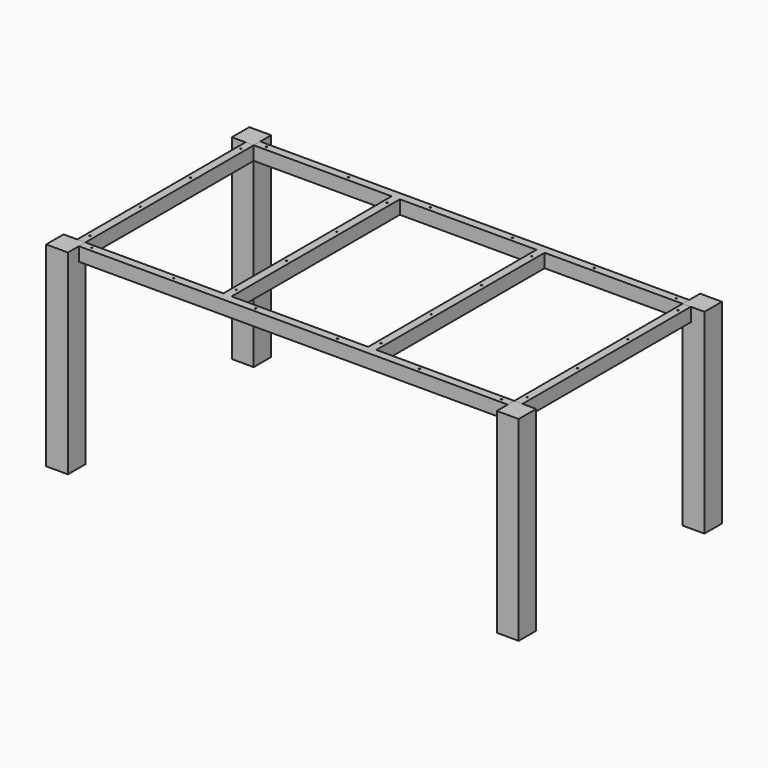
from build123d import *

# Parameters (mm, degrees)
F0_W     = 30
F0_H     = 30
F1_DEPTH = 715
F0_H_2   = 770
F2_DEPTH = 50
F3_D     = 5
F3_2_D   = 5
F3_3_D   = 5


with BuildPart() as f1:
    # F0 (on Top) → F1 (new body)
    with BuildSketch(Plane.XY):
        Polygon((865, -385), (815, -385), (815, -415), (785, -415), (785, -465), (865, -465), align=None)
        with Locations((800, -400)):
            Rectangle(F0_W, F0_H)
    extrude(amount=-F1_DEPTH)


with BuildPart() as f1b:
    # F0 (on Top) → F1, piece 2 (new body)
    with BuildSketch(Plane.XY):
        Polygon((785, 465), (785, 415), (815, 415), (815, 385), (865, 385), (865, 465), align=None)
        with Locations((800, 400)):
            Rectangle(F0_W, F0_H)
    extrude(amount=-F1_DEPTH)


with BuildPart() as f1c:
    # F0 (on Top) → F1, piece 3 (new body)
    with BuildSketch(Plane.XY):
        Polygon((-815, 385), (-815, 415), (-785, 415), (-785, 465), (-865, 465), (-865, 385), align=None)
        with Locations((-800, 400)):
            Rectangle(F0_W, F0_H)
    extrude(amount=-F1_DEPTH)


with BuildPart() as f1d:
    # F0 (on Top) → F1, piece 4 (new body)
    with BuildSketch(Plane.XY):
        Polygon((-815, -415), (-815, -385), (-865, -385), (-865, -465), (-785, -465), (-785, -415), align=None)
        with Locations((-800, -400)):
            Rectangle(F0_W, F0_H)
    extrude(amount=-F1_DEPTH)


with BuildPart() as f2:
    # F0 (on Top) → F2 (new body)
    with BuildSketch(Plane.XY):
        Polygon((785, 415), (-785, 415), (-785, 385), (-280, 385), (-250, 385), (250, 385), (280, 385), (785, 385), align=None)
        Polygon((-280, -385), (-785, -385), (-785, -415), (785, -415), (785, -385), (280, -385), (250, -385), (-250, -385), align=None)
        with Locations((265, 0)):
            Rectangle(F0_W, F0_H_2)
        with Locations((-265, 0)):
            Rectangle(F0_W, F0_H_2)
    extrude(amount=-F2_DEPTH)

    # F3 (through all)
    with Locations(Plane.XY):
        with Locations((-450, 400), (-150, 400), (150, 400), (450, 400), (800, 345), (750, 400), (-750, 400), (-800, 345), (-800, 115), (-800, -115), (-800, -345), (-750, -400), (-450, -400), (-150, -400), (150, -400), (450, -400), (750, -400), (800, -115), (800, -345), (800, 115), (-265, 345), (-265, 115), (-265, -115), (-265, -345), (265, -345), (265, -115), (265, 115), (265, 345)):
            Hole(F3_D / 2)


with BuildPart() as f2b:
    # F0 (on Top) → F2, piece 2 (new body)
    with BuildSketch(Plane.XY):
        with Locations((-800, 0)):
            Rectangle(F0_W, F0_H_2)
    extrude(amount=-F2_DEPTH)

    # F3#2 (through all)
    with Locations(Plane.XY):
        with Locations((-450, 400), (-150, 400), (150, 400), (450, 400), (800, 345), (750, 400), (-750, 400), (-800, 345), (-800, 115), (-800, -115), (-800, -345), (-750, -400), (-450, -400), (-150, -400), (150, -400), (450, -400), (750, -400), (800, -115), (800, -345), (800, 115), (-265, 345), (-265, 115), (-265, -115), (-265, -345), (265, -345), (265, -115), (265, 115), (265, 345)):
            Hole(F3_2_D / 2)


with BuildPart() as f2c:
    # F0 (on Top) → F2, piece 3 (new body)
    with BuildSketch(Plane.XY):
        with Locations((800, 0)):
            Rectangle(F0_W, F0_H_2)
    extrude(amount=-F2_DEPTH)

    # F3#3 (through all)
    with Locations(Plane.XY):
        with Locations((-450, 400), (-150, 400), (150, 400), (450, 400), (800, 345), (750, 400), (-750, 400), (-800, 345), (-800, 115), (-800, -115), (-800, -345), (-750, -400), (-450, -400), (-150, -400), (150, -400), (450, -400), (750, -400), (800, -115), (800, -345), (800, 115), (-265, 345), (-265, 115), (-265, -115), (-265, -345), (265, -345), (265, -115), (265, 115), (265, 345)):
            Hole(F3_3_D / 2)


solid = Compound([f1.part, f1b.part, f1c.part, f1d.part, f2.part, f2b.part, f2c.part])
